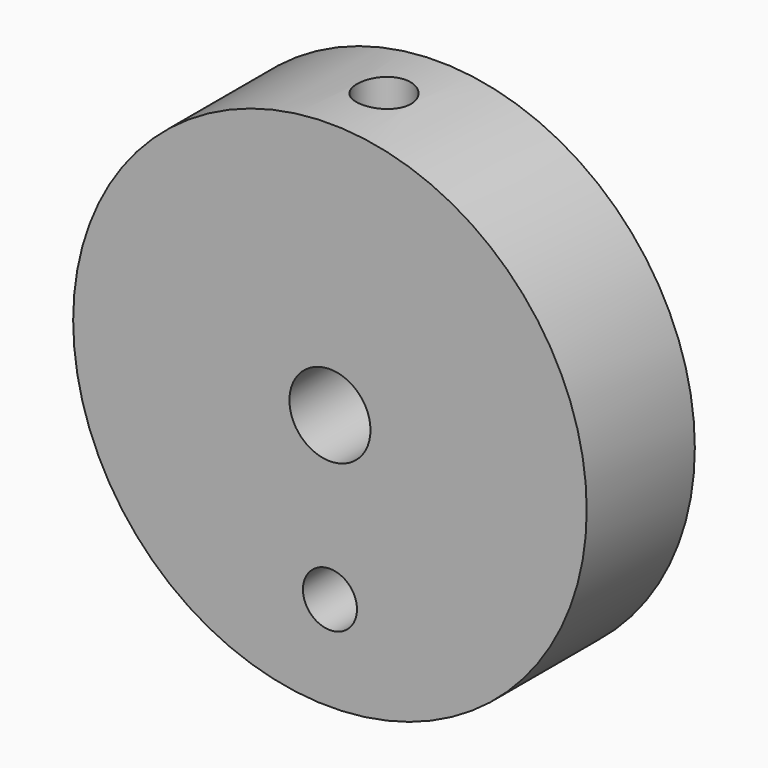
from build123d import *

# Parameters (mm, degrees)
F0_R     = 9.5
F1_DEPTH = 5
F2_R     = 1.5
F2_R_2   = 1
F3_DEPTH = 5.001
F4_R     = 1
F5_DEPTH = 25


with BuildPart() as f1:
    # F0 (on Front) → F1 (new body)
    with BuildSketch(Plane.XZ):
        Circle(F0_R)
    extrude(amount=-F1_DEPTH)

    # F2 (on face) → F3 (cut, through all)
    with BuildSketch(Plane.XZ):
        Circle(F2_R)
        with Locations((0, -6)):
            Circle(F2_R_2)
    extrude(amount=-F3_DEPTH, mode=Mode.SUBTRACT)

    # F4 (on Top) → F5 (cut)
    with BuildSketch(Plane.XY):
        with Locations((0, 2.5)):
            Circle(F4_R)
    extrude(amount=F5_DEPTH, mode=Mode.SUBTRACT)


solid = f1.part
